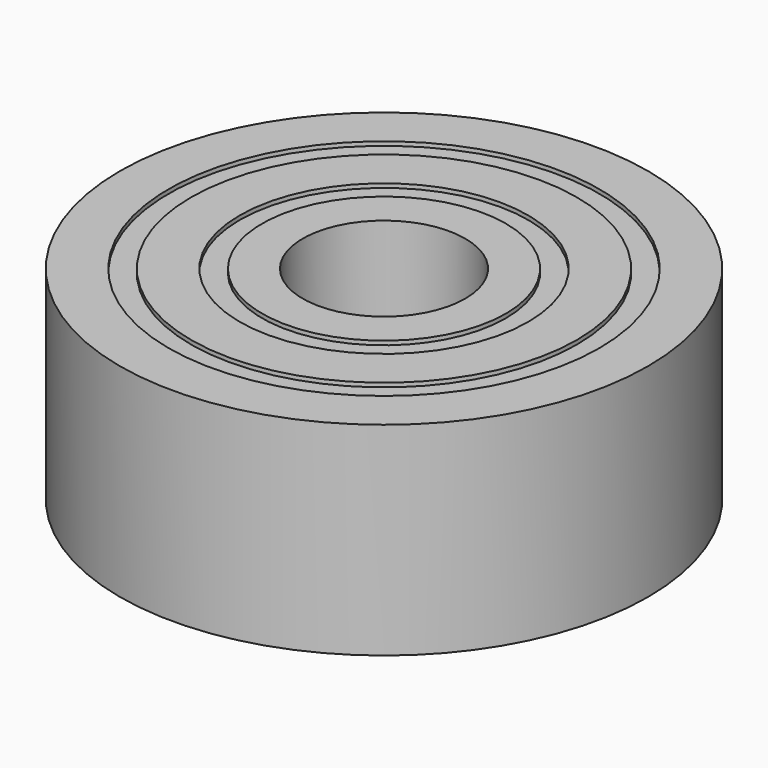
from build123d import *


with BuildPart() as f1:
    # F0 (on Front) → F1 (revolve)
    with BuildSketch(Plane.XZ):
        Polygon((3, 2.5), (2, 2.5), (2, -2.5), (3, -2.5), (3, -2.4), (3.55, -2.4), (3.55, -2.5), (4.75, -2.5), (4.75, -2.4), (5.3, -2.4), (5.3, -2.5), (6.5, -2.5), (6.5, 2.5), (5.3, 2.5), (5.3, 2.4), (4.75, 2.4), (4.75, 2.5), (3.55, 2.5), (3.55, 2.4), (3, 2.4), align=None)
    revolve(axis=Axis((0, 0, -0.220707), (0, 0, -1)))


solid = f1.part
